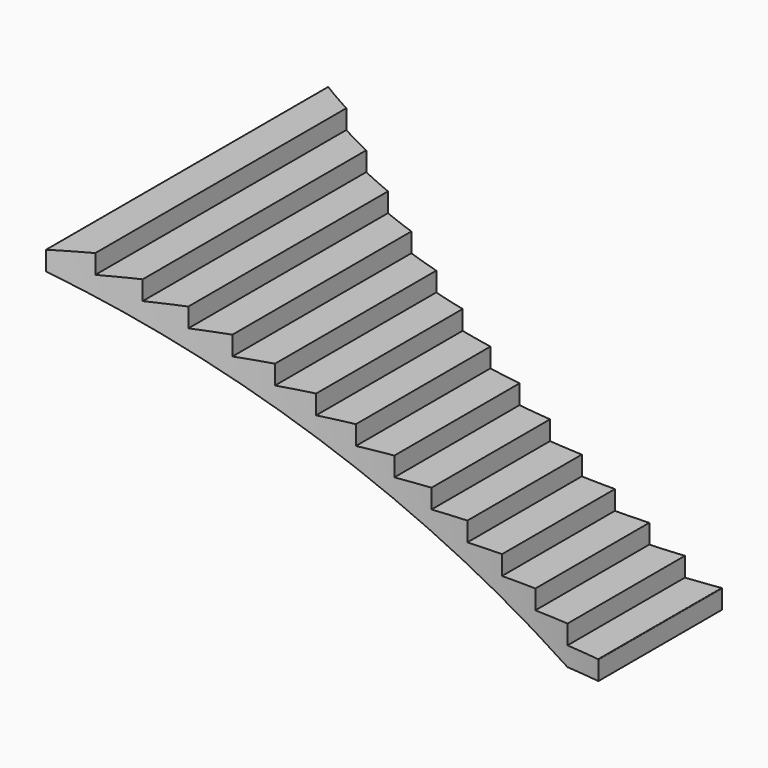
from build123d import *

# Parameters (mm, degrees)
F1_DEPTH = 3810
F2_R     = 5.08
F4_DEPTH = 3683


with BuildPart() as f1:
    # F0 (on Front) → F1 (new body)
    with BuildSketch(Plane.XZ):
        Polygon((-355.6, 0), (0, 0), (0, 203.2), (-355.6, 203.2), (-355.6, 406.4), (-711.2, 406.4), (-711.2, 609.6), (-1066.8, 609.6), (-1066.8, 812.8), (-1422.4, 812.8), (-1422.4, 1016), (-1778, 1016), (-1778, 1219.2), (-2133.6, 1219.2), (-2133.6, 1422.4), (-2489.2, 1422.4), (-2489.2, 1625.6), (-2844.8, 1625.6), (-2844.8, 1828.8), (-3200.4, 1828.8), (-3200.4, 2032), (-3556, 2032), (-3556, 2235.2), (-3911.6, 2235.2), (-3911.6, 2438.4), (-4267.2, 2438.4), (-4267.2, 2641.6), (-4622.8, 2641.6), (-4622.8, 2844.8), (-4978.4, 2844.8), (-4978.4, 2641.6), align=None)
    extrude(amount=F1_DEPTH)

    # F2
    f2_edges = [f1.edges().sort_by_distance(p)[0] for p in [
        (0, -1905, 203.2),
    ]]
    fillet(f2_edges, radius=F2_R)

    # F3 (on Top) → F4 (cut)
    with BuildSketch(Plane.XY):
        with BuildLine():
            Line((0, -3861.087799), (0, -2709.929943))
            ThreePointArc((0, -2709.929943), (-2640.73729, -2840.428822), (-5079.749107, -3861.087799))
            Line((-5079.749107, -3861.087799), (0, -3861.087799))
        make_face()
        with BuildLine():
            ThreePointArc((-5079.749107, 0), (-2637.241483, -997.570803), (0, -1074.696422))
            Line((0, -1074.696422), (0, 100.936957))
            Line((0, 100.936957), (-5079.749107, 100.936957))
            Line((-5079.749107, 100.936957), (-5079.749107, 0))
        make_face()
    extrude(amount=F4_DEPTH, mode=Mode.SUBTRACT)


solid = f1.part
